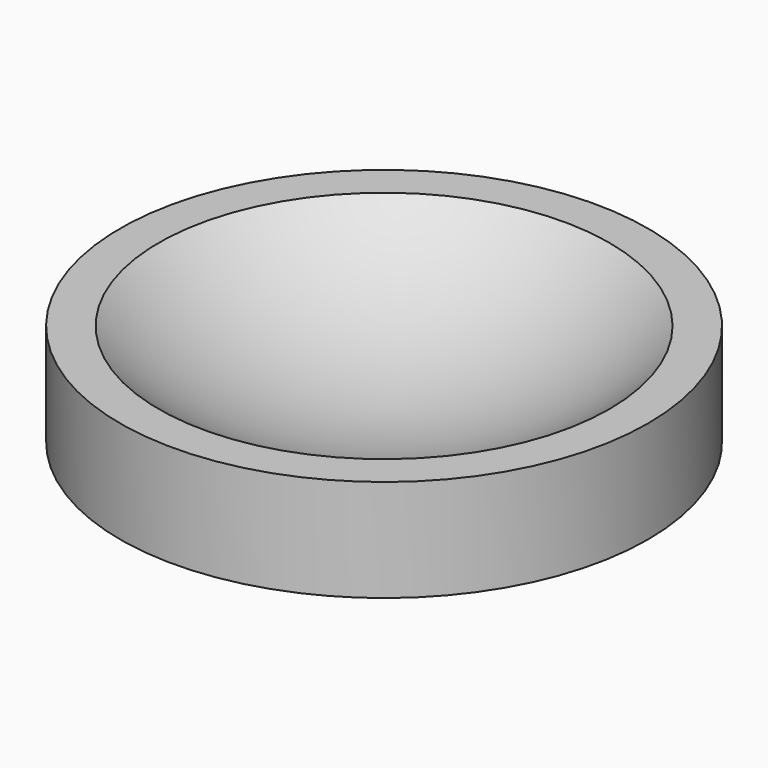
from build123d import *

# Parameters (mm, degrees)
SKETCH_R  = 15.5
PAD_DEPTH = 6


with BuildPart() as sphere:
    # Sphere → Sphere (revolve)
    with BuildSketch(Plane(origin=(0, 0, 21), x_dir=(1, 0, 0), z_dir=(0, -1, 0))):
        with BuildLine():
            ThreePointArc((0, -20), (20, 0), (0, 20))
            Line((0, 20), (0, -20))
        make_face()
    revolve(axis=Axis((0, 0, 21), (0, 0, 1)))


with BuildPart() as cut:
    # Sketch → Pad (new body)
    with BuildSketch(Plane.XY):
        Circle(SKETCH_R)
    extrude(amount=PAD_DEPTH)

    # Cut: cut Sphere
    add(sphere.part, mode=Mode.SUBTRACT)


solid = cut.part
